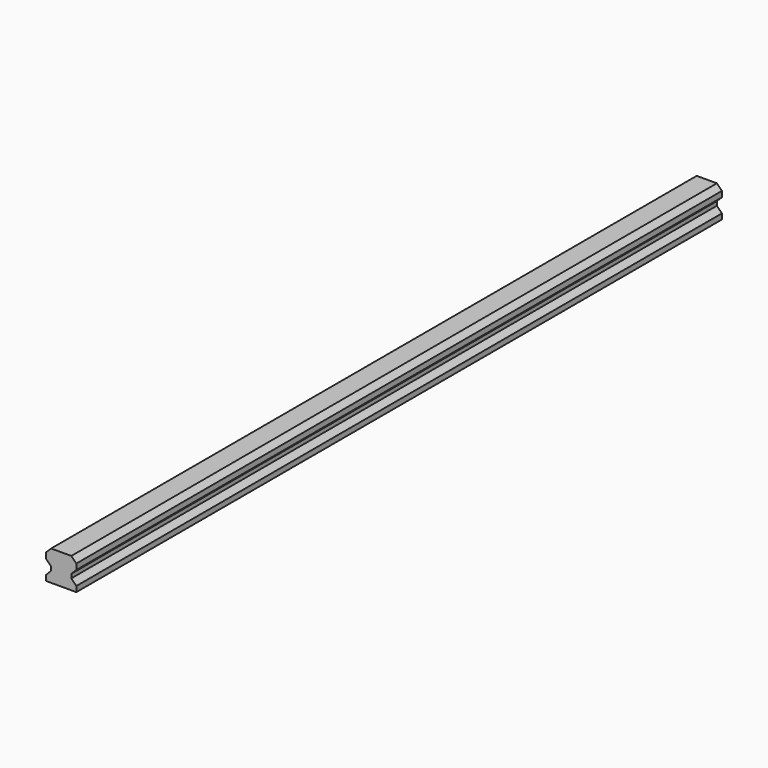
from build123d import *

# Parameters (mm, degrees)
PAD_DEPTH = 400


with BuildPart() as part:
    # Sketch → Pad (new body)
    with BuildSketch(Plane.XZ):
        Polygon((-7.5, 0), (7.5, 0), (7.5, 2.7), (5, 5.2), (5, 7.2), (7.5, 9.7), (7.5, 12.5), (5, 15), (-5, 15), (-7.5, 12.5), (-7.5, 9.7), (-5, 7.2), (-5, 5.2), (-7.5, 2.7), align=None)
    extrude(amount=PAD_DEPTH)


solid = part.part
